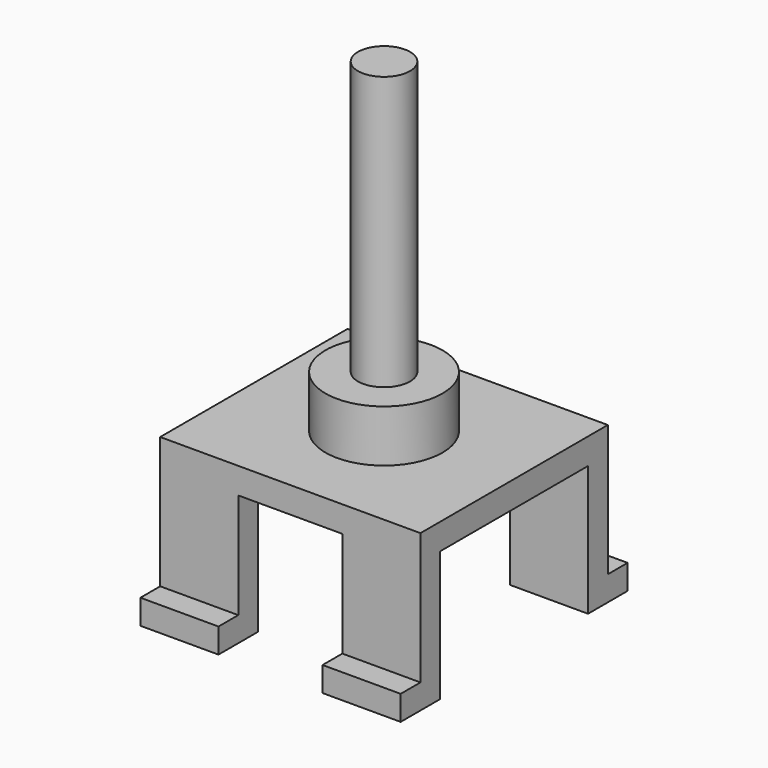
from build123d import *

# Parameters (mm, degrees)
F0_W           = 20
F0_H           = 18
F1_DEPTH       = 2
F2_W           = 20
F2_H           = 1.9
F3_DEPTH       = 10
F4_W           = 20
F4_H           = 1.9
F5_DEPTH       = 1.9
F6_W           = 20
F6_H           = 1.9
F7_DEPTH       = 1.9
F8_R           = 4.5
F8_R_2         = 2
F9_DEPTH       = 4
F10_DEPTH      = 25
F11_W          = 8
F11_H          = 8.1
F11_H_2        = 4.5868207008
F12_DEPTH      = 19.901
F12_DEPTH_BACK = 25


with BuildPart() as f1:
    # F0 (on Top) → F1 (new body)
    with BuildSketch(Plane.XY):
        with Locations((-10, 9)):
            Rectangle(F0_W, F0_H)
    extrude(amount=F1_DEPTH)

    # F2 (on face) → F3 (join)
    with BuildSketch(Plane(origin=(0, 0, 0), x_dir=(1, 0, 0), z_dir=(0, 0, -1))):
        with Locations((-10, -0.95)):
            Rectangle(F2_W, F2_H)
        with Locations((-10, -17.05)):
            Rectangle(F2_W, F2_H)
    extrude(amount=F3_DEPTH)

    # F4 (on face) → F5 (join)
    with BuildSketch(Plane.XZ):
        with Locations((-10, -9.05)):
            Rectangle(F4_W, F4_H)
    extrude(amount=F5_DEPTH)

    # F6 (on face) → F7 (join)
    with BuildSketch(Plane(origin=(0, 18, 0), x_dir=(-1, 0, 0), z_dir=(0, 1, 0))):
        with Locations((10, -9.05)):
            Rectangle(F6_W, F6_H)
    extrude(amount=F7_DEPTH)

    # F8 (on face) → F9 (join)
    with BuildSketch(Plane.XY.offset(2)):
        with Locations((-10, 9)):
            Circle(F8_R)
        with Locations((-10, 9)):
            Circle(F8_R_2, mode=Mode.SUBTRACT)
    extrude(amount=F9_DEPTH)

    # F10 (add): a face of the model
    f10_faces = [f1.faces().sort_by_distance(p)[0] for p in [
        (-10, 9, 2),
    ]]
    extrude(f10_faces, amount=F10_DEPTH)

    # F11 (on face) → F12 (cut, two sides)
    with BuildSketch(Plane.XZ) as f12_sk:
        with Locations((-10, -4.05)):
            Rectangle(F11_W, F11_H)
        with Locations((-10, -10.3934103504)):
            Rectangle(F11_W, F11_H_2)
    extrude(amount=-F12_DEPTH, mode=Mode.SUBTRACT)
    extrude(f12_sk.sketch, amount=F12_DEPTH_BACK, mode=Mode.SUBTRACT)


solid = f1.part
